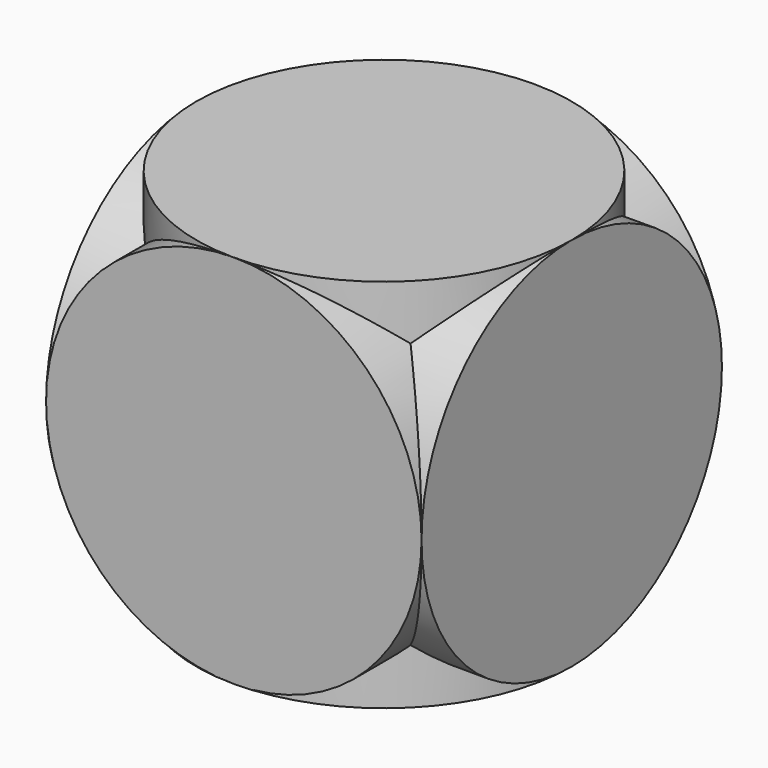
from build123d import *

# Parameters (mm, degrees)
F0_R          = 63.5
F1_DEPTH      = 63.5
F1_DEPTH_BACK = 63.5
F2_R          = 63.5
F3_DEPTH      = 63.5
F3_DEPTH_BACK = 63.5
F4_R          = 63.5
F5_DEPTH      = 63.5
F5_DEPTH_BACK = 63.5


with BuildPart() as f1:
    # F0 (on Front) → F1 (new body, two sides)
    with BuildSketch(Plane.XZ) as f1_sk:
        Circle(F0_R)
    extrude(amount=F1_DEPTH)
    extrude(f1_sk.sketch, amount=-F1_DEPTH_BACK)

    # F2 (on Top) → F3 (join, two sides)
    with BuildSketch(Plane.XY) as f3_sk:
        Circle(F2_R)
    extrude(amount=F3_DEPTH)
    extrude(f3_sk.sketch, amount=-F3_DEPTH_BACK)

    # F4 (on Right) → F5 (join, two sides)
    with BuildSketch(Plane.YZ) as f5_sk:
        Circle(F4_R)
    extrude(amount=F5_DEPTH)
    extrude(f5_sk.sketch, amount=-F5_DEPTH_BACK)


solid = f1.part
